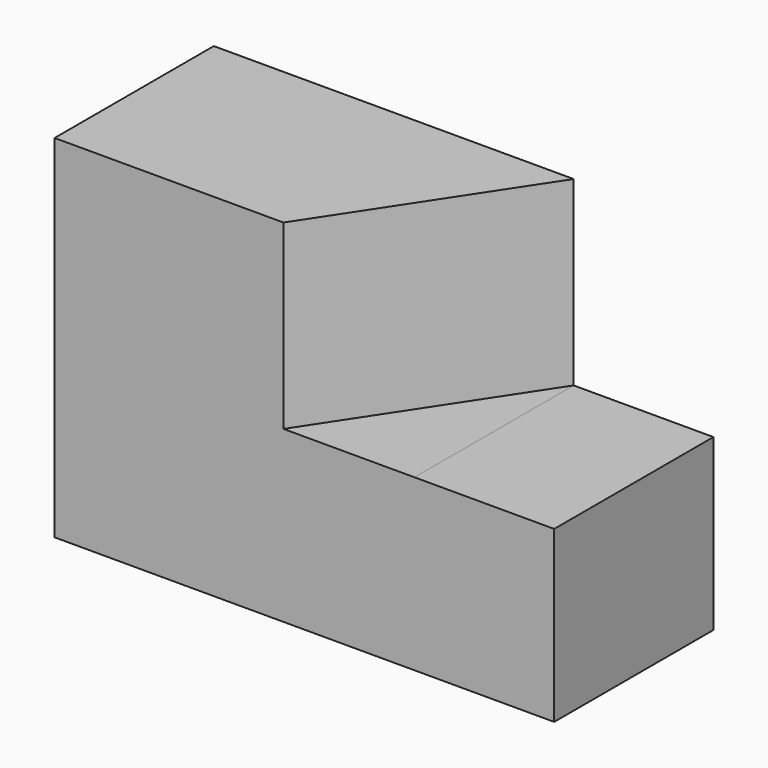
from build123d import *

# Parameters (mm, degrees)
F0_W     = 159.44358
F0_H     = 118.819759
F1_DEPTH = 63.5
F2_W     = 44.598654
F2_H     = 64.595787
F3_DEPTH = 66.802
F5_DEPTH = 64.595786
F6_W     = 126.061455
F6_H     = 6.612033
F7_DEPTH = 70.866


with BuildPart() as f1:
    # F0 (on Front) → F1 (new body)
    with BuildSketch(Plane.XZ):
        with Locations((13.00003, -12.35427)):
            Rectangle(F0_W, F0_H)
    extrude(amount=F1_DEPTH)

    # F2 (on face) → F3 (cut)
    with BuildSketch(Plane.XZ.offset(63.5)):
        with Locations((70.422493, 14.757716)):
            Rectangle(F2_W, F2_H)
    extrude(amount=-F3_DEPTH, mode=Mode.SUBTRACT)

    # F4 (on face) → F5 (cut, through all)
    with BuildSketch(Plane.XY.offset(47.05561)):
        Polygon((48.123166, -63.5), (48.123166, 0), (6.32387, -63.5), align=None)
    extrude(amount=-F5_DEPTH, mode=Mode.SUBTRACT)

    # F6 (on face) → F7 (cut)
    with BuildSketch(Plane.XZ.offset(63.5)):
        with Locations((-3.691033, 43.749593)):
            Rectangle(F6_W, F6_H)
    extrude(amount=-F7_DEPTH, mode=Mode.SUBTRACT)


solid = f1.part
